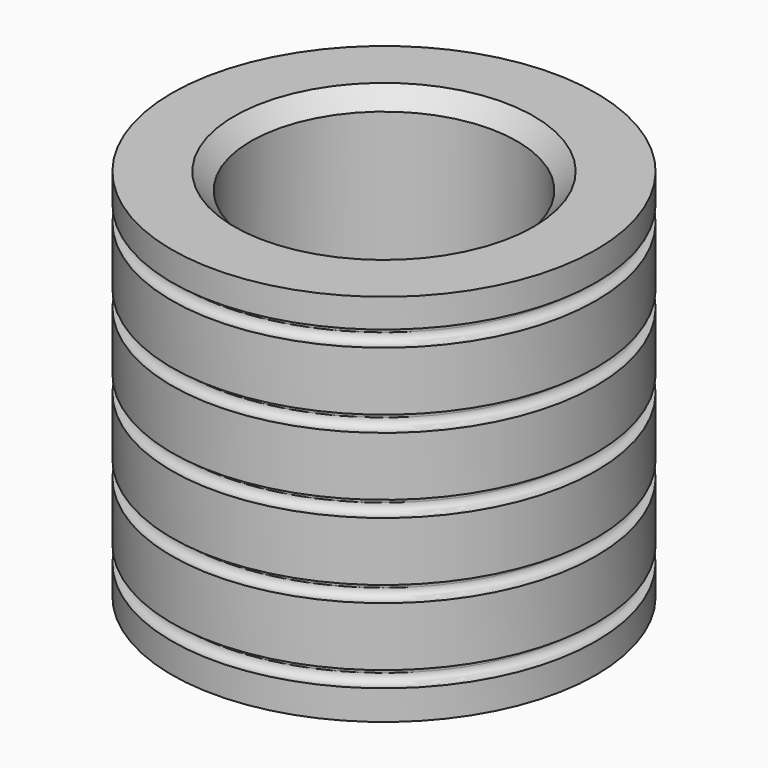
from build123d import *

# Parameters (mm, degrees)
F0_R     = 25.5
F0_R_2   = 16
F1_DEPTH = 45
F2_SIZE  = 2
F3_R     = 1


with BuildPart() as f1:
    # F0 (on Top) → F1 (new body)
    with BuildSketch(Plane.XY):
        Circle(F0_R)
        Circle(F0_R_2, mode=Mode.SUBTRACT)
    extrude(amount=F1_DEPTH)

    # F2
    f2_edges = [f1.edges().sort_by_distance(p)[0] for p in [
        (-16, 0, 45),
        (-16, 0, 0),
    ]]
    chamfer(f2_edges, length=F2_SIZE)

    # F3 (on Front) → F4 (revolve, cut)
    with BuildSketch(Plane.XZ):
        with Locations((-25.229258, 40.57147)):
            Circle(F3_R)
        with Locations((-25.228154, 31.56053)):
            Circle(F3_R)
        with Locations((-25.227049, 22.54959)):
            Circle(F3_R)
        with Locations((-25.225944, 13.53865)):
            Circle(F3_R)
        with Locations((-25.22484, 4.52771)):
            Circle(F3_R)
    revolve(axis=Axis((0, 0, 30.274944), (0, 0, 1)), mode=Mode.SUBTRACT)


solid = f1.part
